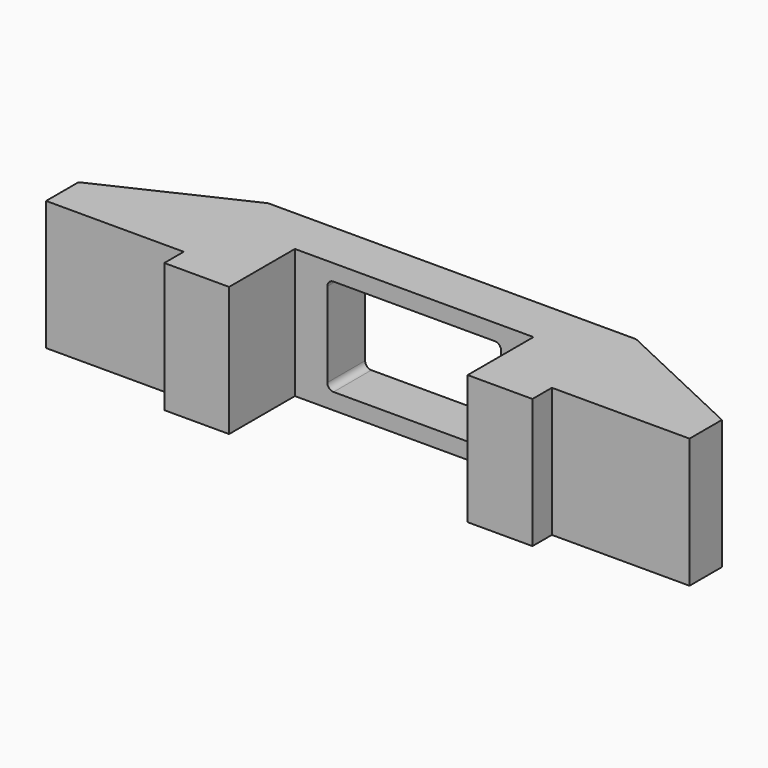
from build123d import *

# Parameters (mm, degrees)
F1_DEPTH = 8
F2_W     = 10.732
F2_H     = 6
F3_DEPTH = 25
F4_R     = 0.386274
F6_DEPTH = 8


with BuildPart() as f1:
    # F0 (on Top) → F1 (new body)
    with BuildSketch(Plane.XY):
        Polygon((11.366, 4), (-11.366, 4), (-11.366, 0), (-19.866, 0), (-19.866, -2.5), (-11.366, -2.5), (-11.366, -4), (-7.366, -4), (-7.366, 1.08), (7.366, 1.08), (7.366, -4), (11.366, -4), (11.366, -2.5), (19.866, -2.5), (19.866, 0), (11.366, 0), align=None)
    extrude(amount=F1_DEPTH)

    # F2 (on face) → F3 (cut)
    with BuildSketch(Plane.XZ.offset(-1.08)):
        with Locations((0, 4)):
            Rectangle(F2_W, F2_H)
    extrude(amount=-F3_DEPTH, mode=Mode.SUBTRACT)

    # F4
    f4_edges = [f1.edges().sort_by_distance(p)[0] for p in [
        (-5.366, 2.54, 1),
        (-5.366, 2.54, 7),
        (5.366, 2.54, 7),
        (5.366, 2.54, 1),
    ]]
    fillet(f4_edges, radius=F4_R)

    # F5 (on face) → F6 (join)
    with BuildSketch(Plane.XY.offset(8)):
        Polygon((19.866, 0), (11.366, 4), (11.366, 0), align=None)
        Polygon((-11.366, 0), (-11.366, 4), (-19.866, 0), align=None)
    extrude(amount=-F6_DEPTH)


solid = f1.part
